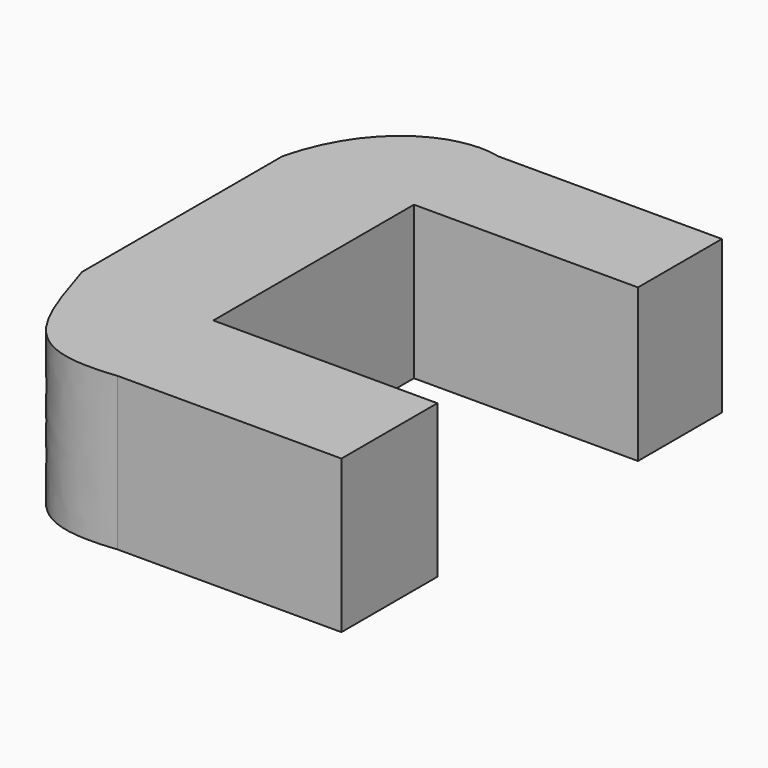
from build123d import *

# Parameters (mm, degrees)
F0_W     = 32.742801
F0_H     = 62.508758
F0_W_2   = 55.836012
F0_H_2   = 26.163777
F0_H_3   = 29.884432
F1_DEPTH = 38.1


with BuildPart() as f1:
    # F0 (on Top) → F1 (new body)
    with BuildSketch(Plane.XY):
        with BuildLine():
            add(Edge.make_bspline(
                [(-22.038743, 25.429312), (-16.529055, 47.468059), (0, 54.362405), (10.704058, 51.593089)],
                knots=[0, 0, 0, 0, 41.912221, 41.912221, 41.912221, 41.912221], degree=3))
            Line((-22.038743, 25.429312), (10.704058, 25.429312))
            Line((10.704058, 25.429312), (10.704058, 51.593089))
        make_face()
        with Locations((-5.667343, -5.825067)):
            Rectangle(F0_W, F0_H)
        with Locations((38.622064, 38.511201)):
            Rectangle(F0_W_2, F0_H_2)
        with BuildLine():
            Line((10.704058, -37.079446), (-22.038743, -37.079446))
            add(Edge.make_bspline(
                [(-22.038743, -37.079446), (-14.833768, -60.389657), (-11.334691, -69.506813), (10.704058, -66.963878)],
                knots=[0, 0, 0, 0, 44.330241, 44.330241, 44.330241, 44.330241], degree=3))
            Line((10.704058, -66.963878), (10.704058, -37.079446))
        make_face()
        with Locations((38.622064, -52.021662)):
            Rectangle(F0_W_2, F0_H_3)
    extrude(amount=-F1_DEPTH)


solid = f1.part
